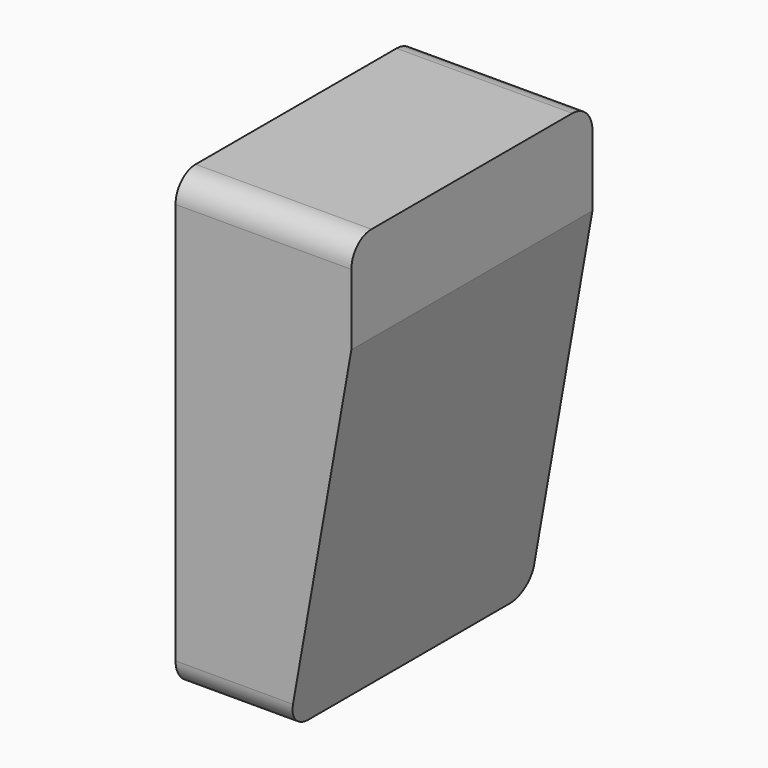
from build123d import *

# Parameters (mm, degrees)
F1_DEPTH = 6
F2_R     = 1


with BuildPart() as f1:
    # F0 (on Front) → F1 (new body, symmetric)
    with BuildSketch(Plane.XZ):
        Polygon((0, 18), (0, 0), (4.5, 0), (7, 14.178205), (7, 18), align=None)
    extrude(amount=F1_DEPTH, both=True)

    # F2
    f2_edges = [f1.edges().sort_by_distance(p)[0] for p in [
        (3.5, -6, 18),
        (3.5, 6, 18),
        (2.25, -6, 0),
        (2.25, 6, 0),
    ]]
    fillet(f2_edges, radius=F2_R)


solid = f1.part
